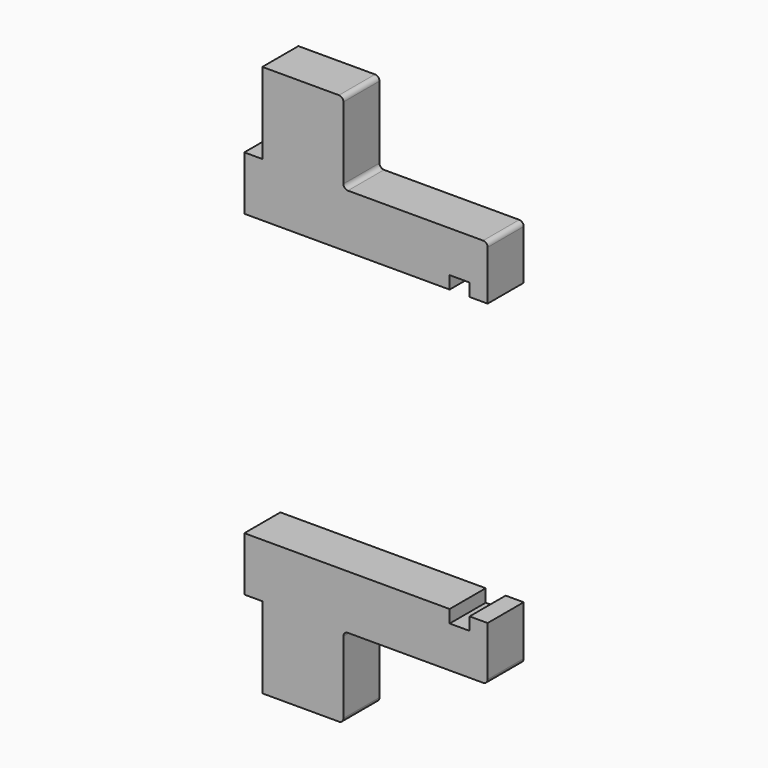
from build123d import *

# Parameters (mm, degrees)
F1_DEPTH = 25
F2_R     = 2.5


with BuildPart() as f1:
    # F0 (on Front) → F1 (new body)
    with BuildSketch(Plane.XZ):
        Polygon((0, 163.08), (11.07, 163.08), (11.07, 156), (21.07, 156), (21.07, 186), (-58.93, 186), (-58.93, 231), (-103.93, 231), (-103.93, 186), (-113.93, 186), (-113.93, 156), (0, 156), align=None)
        Polygon((0, -7.08), (0, 0), (-113.93, 0), (-113.93, -30), (-103.93, -30), (-103.93, -75), (-58.93, -75), (-58.93, -30), (21.07, -30), (21.07, 0), (11.07, 0), (11.07, -7.08), align=None)
    extrude(amount=F1_DEPTH)

    # F2
    f2_edges = [f1.edges().sort_by_distance(p)[0] for p in [
        (-58.93, -12.5, 231),
        (-58.93, -12.5, 186),
        (21.07, -12.5, 186),
        (21.07, -12.5, -30),
        (-58.93, -12.5, -30),
        (-58.93, -12.5, -75),
    ]]
    fillet(f2_edges, radius=F2_R)


solid = f1.part
